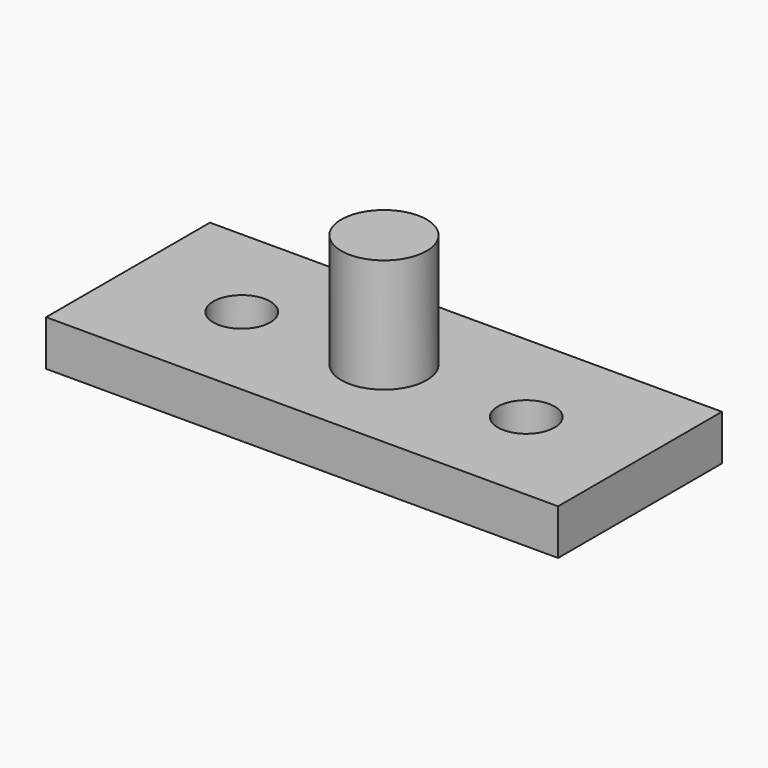
from build123d import *

# Parameters (mm, degrees)
F0_W     = 45
F0_H     = 18
F0_R     = 2.5
F1_DEPTH = 4
F2_R     = 3.75
F3_DEPTH = 10


with BuildPart() as f1:
    # F0 (on Top) → F1 (new body)
    with BuildSketch(Plane.XY):
        Rectangle(F0_W, F0_H)
        with Locations((-12.5, 0)):
            Circle(F0_R, mode=Mode.SUBTRACT)
        with Locations((12.5, 0)):
            Circle(F0_R, mode=Mode.SUBTRACT)
    extrude(amount=F1_DEPTH)

    # F2 (on face) → F3 (join)
    with BuildSketch(Plane.XY.offset(4)):
        Circle(F2_R)
    extrude(amount=F3_DEPTH)


solid = f1.part
